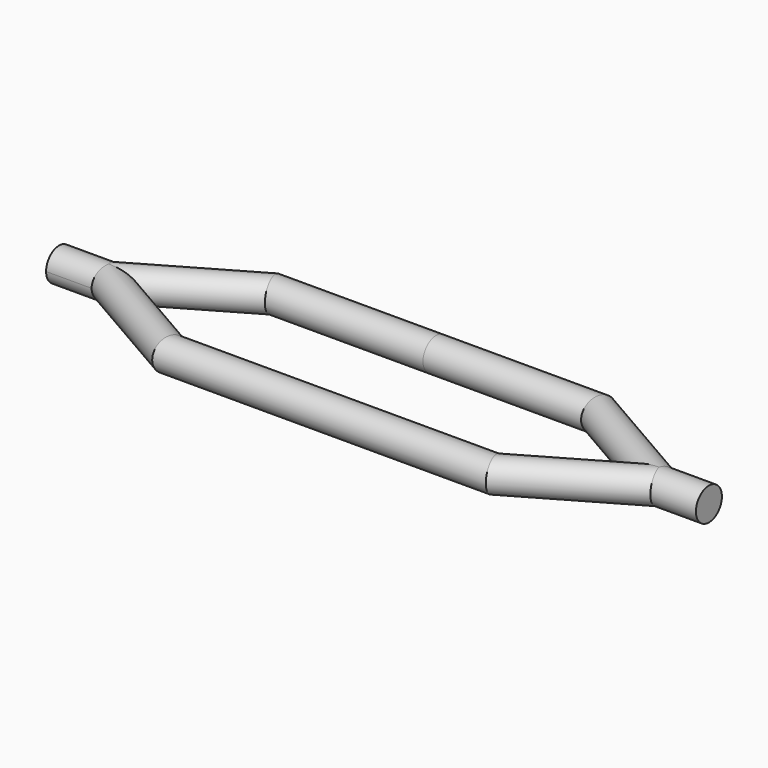
from build123d import *

# Parameters (mm, degrees)
F1_R = 0.5


with BuildPart() as f2:
    # F2: sweep along a path in F0
    with BuildLine(Plane.XY) as f2_path:
        Line((0, 10), (1.5358983849, 10))
        Line((1.5358983849, 10), (5, 12))
        Line((5, 12), (10, 12))
    # F1 (on Right) → F2 (sweep)
    with BuildSketch(Plane.YZ):
        with Locations((10, 0)):
            Circle(F1_R)
    sweep(path=f2_path.line, transition=Transition.RIGHT)

    # F7: F2 across plane


with BuildPart() as f2_1:
    add(f2.part)
    add(f2.part.mirror(Plane.YZ.offset(10)))

    # F8: F2 across plane


with BuildPart() as f2_2:
    add(f2_1.part)
    add(f2_1.part.mirror(Plane.XZ.offset(-10)))


solid = f2_2.part
